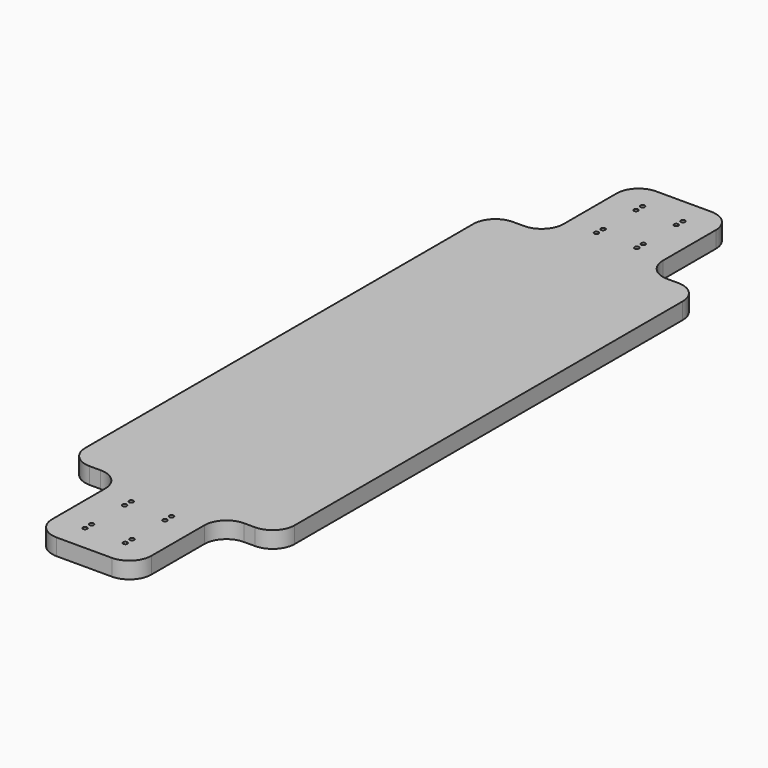
from build123d import *

# Parameters (mm, degrees)
F0_W     = 56.134
F0_H     = 76.2
F0_R     = 2.49555
F1_DEPTH = 19.05


with BuildPart() as f1:
    # F0 (on Top) → F1 (new body)
    with BuildSketch(Plane.XY):
        with BuildLine():
            Line((95.25, 304.8), (82.55, 304.8))
            ThreePointArc((82.55, 304.8), (64.589488, 312.239488), (57.15, 330.2))
            Line((57.15, 330.2), (57.15, 406.4))
            ThreePointArc((57.15, 406.4), (49.710512, 424.360512), (31.75, 431.8))
            Line((31.75, 431.8), (-31.75, 431.8))
            ThreePointArc((-31.75, 431.8), (-49.710512, 424.360512), (-57.15, 406.4))
            Line((-57.15, 406.4), (-57.15, 330.2))
            ThreePointArc((-57.15, 330.2), (-64.589488, 312.239488), (-82.55, 304.8))
            Line((-82.55, 304.8), (-95.25, 304.8))
            ThreePointArc((-95.25, 304.8), (-113.210512, 297.360512), (-120.65, 279.4))
            Line((-120.65, 279.4), (-120.65, -279.4))
            ThreePointArc((-120.65, -279.4), (-113.210512, -297.360512), (-95.25, -304.8))
            Line((-95.25, -304.8), (-82.55, -304.8))
            ThreePointArc((-82.55, -304.8), (-64.589488, -312.239488), (-57.15, -330.2))
            Line((-57.15, -330.2), (-57.15, -406.4))
            ThreePointArc((-57.15, -406.4), (-49.710512, -424.360512), (-31.75, -431.8))
            Line((-31.75, -431.8), (31.75, -431.8))
            ThreePointArc((31.75, -431.8), (49.710512, -424.360512), (57.15, -406.4))
            Line((57.15, -406.4), (57.15, -330.2))
            ThreePointArc((57.15, -330.2), (64.589488, -312.239488), (82.55, -304.8))
            Line((82.55, -304.8), (95.25, -304.8))
            ThreePointArc((95.25, -304.8), (113.210512, -297.360512), (120.65, -279.4))
            Line((120.65, -279.4), (120.65, 279.4))
            ThreePointArc((120.65, 279.4), (113.210512, 297.360512), (95.25, 304.8))
        make_face()
        with Locations((0, -368.3)):
            Rectangle(F0_W, F0_H, mode=Mode.SUBTRACT)
        with Locations((-23.241, 335.026)):
            Circle(F0_R, mode=Mode.SUBTRACT)
        with Locations((-23.241, 344.5891)):
            Circle(F0_R, mode=Mode.SUBTRACT)
        with Locations((-23.241, 392.0109)):
            Circle(F0_R, mode=Mode.SUBTRACT)
        with Locations((-23.241, 401.574)):
            Circle(F0_R, mode=Mode.SUBTRACT)
        with Locations((23.241, 335.026)):
            Circle(F0_R, mode=Mode.SUBTRACT)
        with Locations((23.241, 344.5891)):
            Circle(F0_R, mode=Mode.SUBTRACT)
        with Locations((23.241, 392.0109)):
            Circle(F0_R, mode=Mode.SUBTRACT)
        with Locations((23.241, 401.574)):
            Circle(F0_R, mode=Mode.SUBTRACT)
        with Locations((0, -368.3)):
            Rectangle(F0_W, F0_H)
        with Locations((-23.241, -401.574)):
            Circle(F0_R, mode=Mode.SUBTRACT)
        with Locations((-23.241, -392.0109)):
            Circle(F0_R, mode=Mode.SUBTRACT)
        with Locations((-23.241, -344.5891)):
            Circle(F0_R, mode=Mode.SUBTRACT)
        with Locations((-23.241, -335.026)):
            Circle(F0_R, mode=Mode.SUBTRACT)
        with Locations((23.241, -401.574)):
            Circle(F0_R, mode=Mode.SUBTRACT)
        with Locations((23.241, -392.0109)):
            Circle(F0_R, mode=Mode.SUBTRACT)
        with Locations((23.241, -344.5891)):
            Circle(F0_R, mode=Mode.SUBTRACT)
        with Locations((23.241, -335.026)):
            Circle(F0_R, mode=Mode.SUBTRACT)
    extrude(amount=F1_DEPTH)


solid = f1.part
